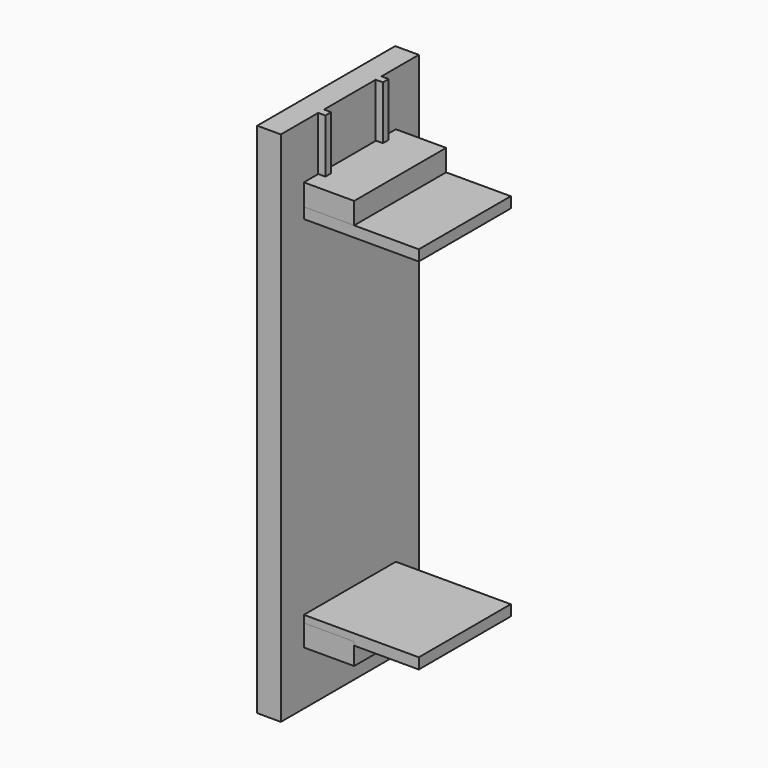
from build123d import *

# Parameters (mm, degrees)
F0_W          = 203.2
F0_H          = 203.2
F1_DEPTH      = 19.05
F3_W          = 203.2
F3_H          = 38.1
F4_DEPTH      = 88.9
F6_W          = 41.7942482265
F6_H          = 914.4
F7_DEPTH      = 254
F7_DEPTH_BACK = 50.8
F8_W          = 12.7
F8_H          = 94.7504844308
F8_H_2        = 95.1455361115
F9_DEPTH      = 12.7


with BuildPart() as f1:
    # F0 (on Top) → F1 (new body)
    with BuildSketch(Plane.XY):
        with Locations((93.1183745325, 96.9822260723)):
            Rectangle(F0_W, F0_H)
    extrude(amount=F1_DEPTH)


with BuildPart() as f2_1:
    # F2: copy of F1
    add(f1.part.moved(Location((0, 0, -635))))


with BuildPart() as f4:
    # F3 (on face) → F4 (new body)
    with BuildSketch(Plane(origin=(-8.4816254675, 0, 0), x_dir=(0, -1, 0), z_dir=(-1, 0, 0))):
        with Locations((-96.9822260723, 38.1)):
            Rectangle(F3_W, F3_H)
    extrude(amount=-F4_DEPTH)


with BuildPart() as f5_1:
    # F5: copy of F4
    add(f4.part.moved(Location((0, 0, -685.8))))


with BuildPart() as f7:
    # F6 (on face) → F7 (new body, two sides)
    with BuildSketch(Plane(origin=(0, 198.5822260723, 0), x_dir=(-1, 0, 0), z_dir=(0, 1, 0))) as f7_sk:
        with Locations((29.3787495808, -304.8)):
            Rectangle(F6_W, F6_H)
    extrude(amount=-F7_DEPTH)
    extrude(f7_sk.sketch, amount=F7_DEPTH_BACK)

    # F8 (on face) → F9 (join)
    with BuildSketch(Plane.YZ.offset(-8.4816254675)):
        with Locations((160.4822260723, 105.0247577846)):
            Rectangle(F8_W, F8_H)
        with Locations((33.4820542182, 104.8272319442)):
            Rectangle(F8_W, F8_H_2)
    extrude(amount=F9_DEPTH)


solid = Compound([f1.part, f2_1.part, f4.part, f5_1.part, f7.part])
